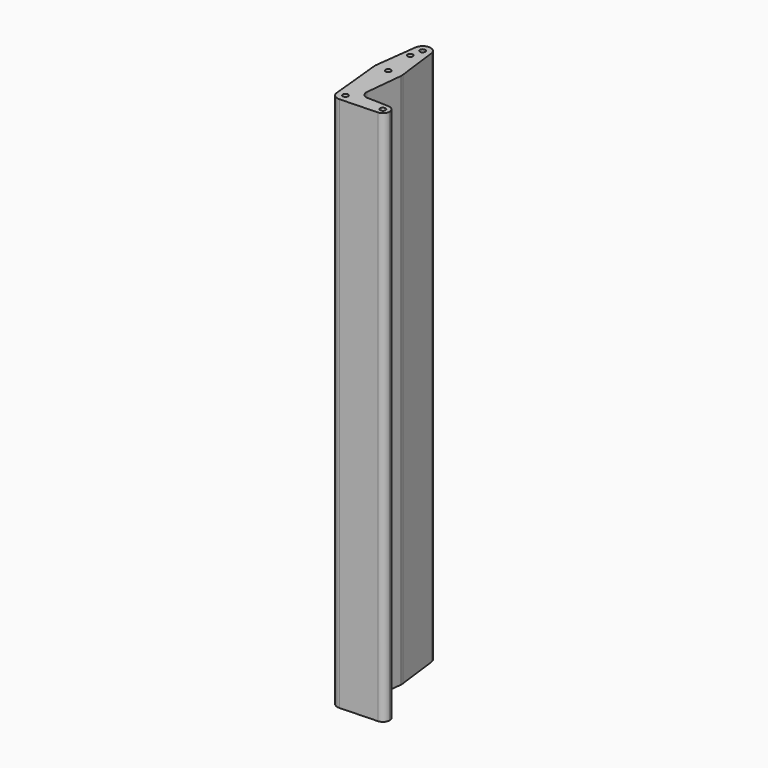
from build123d import *

# Parameters (mm, degrees)
F0_R     = 0.125
F1_DEPTH = 25
F2_DEPTH = 3.048


with BuildPart() as f1:
    # F0 (on Top) → F1 (new body)
    with BuildSketch(Plane.XY):
        with BuildLine():
            ThreePointArc((0.013393, -0.374761), (0.269859, -0.260387), (0.375, 0))
            ThreePointArc((0.375, 0), (-0.018774, 0.37453), (-0.37312, -0.0375))
            ThreePointArc((-0.37312, -0.0375), (-0.246551, -0.282556), (0.013393, -0.374761))
        make_face()
        Circle(F0_R, mode=Mode.SUBTRACT)
        with BuildLine():
            ThreePointArc((-0.37312, -0.0375), (-0.018774, 0.37453), (0.375, 0))
            ThreePointArc((0.375, 0), (0.269859, -0.260387), (0.013393, -0.374761))
            Line((0.013393, -0.374761), (1.761161, -0.312301))
            ThreePointArc((1.761161, -0.312301), (1.4375, 0), (1.761161, 0.312301))
            Line((1.761161, 0.312301), (0.746756, 0.348553))
            ThreePointArc((0.746756, 0.348553), (0.522094, 0.455565), (0.446503, 0.692653))
            Line((0.446503, 0.692653), (0.621867, 2.4375))
            ThreePointArc((0.621867, 2.4375), (0, 1.875), (-0.621867, 2.4375))
            Line((-0.621867, 2.4375), (-0.37312, -0.0375))
        make_face()
        with BuildLine():
            ThreePointArc((-0.620098, 2.578125), (-0.624951, 2.507862), (-0.621867, 2.4375))
            ThreePointArc((-0.621867, 2.4375), (0, 1.875), (0.621867, 2.4375))
            ThreePointArc((0.621867, 2.4375), (0.624216, 2.468711), (0.625, 2.5))
            ThreePointArc((0.625, 2.5), (0.623773, 2.539139), (0.620098, 2.578125))
            ThreePointArc((0.620098, 2.578125), (0, 3.125), (-0.620098, 2.578125))
        make_face()
        with Locations((0, 2.5)):
            Circle(F0_R, mode=Mode.SUBTRACT)
        with BuildLine():
            ThreePointArc((1.761161, 0.312301), (1.4375, 0), (1.761161, -0.312301))
            ThreePointArc((1.761161, -0.312301), (1.974882, -0.216989), (2.0625, 0))
            ThreePointArc((2.0625, 0), (1.974882, 0.216989), (1.761161, 0.312301))
        make_face()
        with Locations((1.75, 0)):
            Circle(F0_R, mode=Mode.SUBTRACT)
        with BuildLine():
            Line((-0.372059, 4.546875), (-0.620098, 2.578125))
            ThreePointArc((-0.620098, 2.578125), (0, 3.125), (0.620098, 2.578125))
            Line((0.620098, 2.578125), (0.372059, 4.546875))
            ThreePointArc((0.372059, 4.546875), (0.374264, 4.523484), (0.375, 4.5))
            ThreePointArc((0.375, 4.5), (-0.023484, 4.125736), (-0.372059, 4.546875))
        make_face()
        with Locations((-0.125, 3.938)):
            Circle(F0_R, mode=Mode.SUBTRACT)
        with BuildLine():
            ThreePointArc((0.372059, 4.546875), (0, 4.875), (-0.372059, 4.546875))
            ThreePointArc((-0.372059, 4.546875), (-0.023484, 4.125736), (0.375, 4.5))
            ThreePointArc((0.375, 4.5), (0.374264, 4.523484), (0.372059, 4.546875))
        make_face()
        with Locations((0, 4.5)):
            Circle(F0_R, mode=Mode.SUBTRACT)
    extrude(amount=F1_DEPTH)

    # F0 (on Top) → F2 (join)
    with BuildSketch(Plane.XY):
        with BuildLine():
            ThreePointArc((0.013393, -0.374761), (0.269859, -0.260387), (0.375, 0))
            ThreePointArc((0.375, 0), (-0.018774, 0.37453), (-0.37312, -0.0375))
            ThreePointArc((-0.37312, -0.0375), (-0.246551, -0.282556), (0.013393, -0.374761))
        make_face()
        Circle(F0_R, mode=Mode.SUBTRACT)
        with BuildLine():
            ThreePointArc((-0.37312, -0.0375), (-0.018774, 0.37453), (0.375, 0))
            ThreePointArc((0.375, 0), (0.269859, -0.260387), (0.013393, -0.374761))
            Line((0.013393, -0.374761), (1.761161, -0.312301))
            ThreePointArc((1.761161, -0.312301), (1.4375, 0), (1.761161, 0.312301))
            Line((1.761161, 0.312301), (0.746756, 0.348553))
            ThreePointArc((0.746756, 0.348553), (0.522094, 0.455565), (0.446503, 0.692653))
            Line((0.446503, 0.692653), (0.621867, 2.4375))
            ThreePointArc((0.621867, 2.4375), (0, 1.875), (-0.621867, 2.4375))
            Line((-0.621867, 2.4375), (-0.37312, -0.0375))
        make_face()
        with BuildLine():
            ThreePointArc((-0.620098, 2.578125), (-0.624951, 2.507862), (-0.621867, 2.4375))
            ThreePointArc((-0.621867, 2.4375), (0, 1.875), (0.621867, 2.4375))
            ThreePointArc((0.621867, 2.4375), (0.624216, 2.468711), (0.625, 2.5))
            ThreePointArc((0.625, 2.5), (0.623773, 2.539139), (0.620098, 2.578125))
            ThreePointArc((0.620098, 2.578125), (0, 3.125), (-0.620098, 2.578125))
        make_face()
        with Locations((0, 2.5)):
            Circle(F0_R, mode=Mode.SUBTRACT)
        with BuildLine():
            ThreePointArc((1.761161, 0.312301), (1.4375, 0), (1.761161, -0.312301))
            ThreePointArc((1.761161, -0.312301), (1.974882, -0.216989), (2.0625, 0))
            ThreePointArc((2.0625, 0), (1.974882, 0.216989), (1.761161, 0.312301))
        make_face()
        with Locations((1.75, 0)):
            Circle(F0_R, mode=Mode.SUBTRACT)
        with BuildLine():
            Line((-0.372059, 4.546875), (-0.620098, 2.578125))
            ThreePointArc((-0.620098, 2.578125), (0, 3.125), (0.620098, 2.578125))
            Line((0.620098, 2.578125), (0.372059, 4.546875))
            ThreePointArc((0.372059, 4.546875), (0.374264, 4.523484), (0.375, 4.5))
            ThreePointArc((0.375, 4.5), (-0.023484, 4.125736), (-0.372059, 4.546875))
        make_face()
        with Locations((-0.125, 3.938)):
            Circle(F0_R, mode=Mode.SUBTRACT)
        with BuildLine():
            ThreePointArc((0.372059, 4.546875), (0, 4.875), (-0.372059, 4.546875))
            ThreePointArc((-0.372059, 4.546875), (-0.023484, 4.125736), (0.375, 4.5))
            ThreePointArc((0.375, 4.5), (0.374264, 4.523484), (0.372059, 4.546875))
        make_face()
        with Locations((0, 4.5)):
            Circle(F0_R, mode=Mode.SUBTRACT)
    extrude(amount=F2_DEPTH)


solid = f1.part
